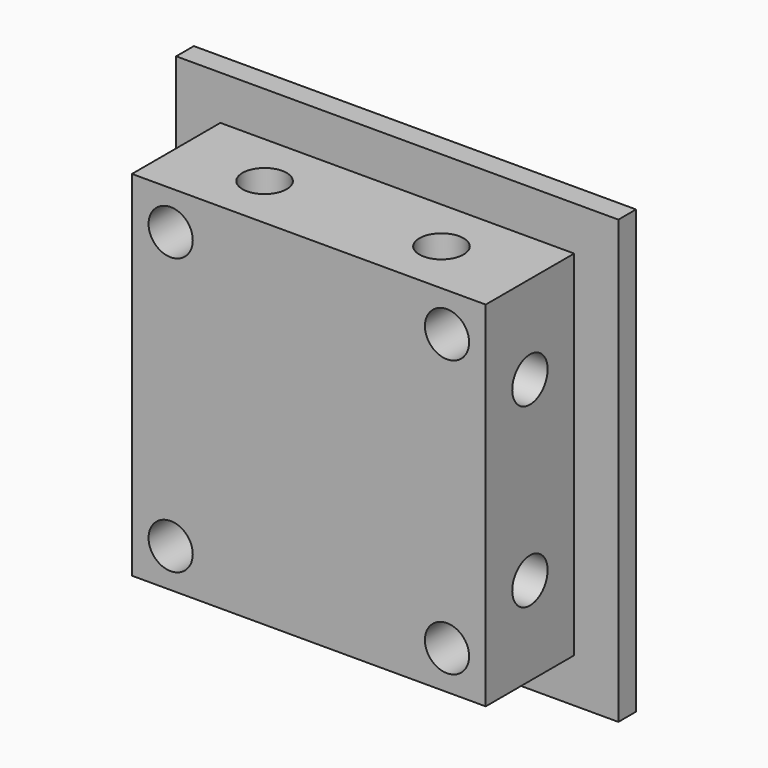
from build123d import *

# Parameters (mm, degrees)
SKETCH032_W     = 40
SKETCH032_H     = 40
SKETCH032_R     = 2
PAD018_DEPTH    = 2
SKETCH033_W     = 32
SKETCH033_H     = 32
SKETCH033_R     = 2
PAD019_DEPTH    = 10
SKETCH034_R     = 2
POCKET013_DEPTH = 8
SKETCH035_R     = 2
POCKET014_DEPTH = 8
SKETCH039_R     = 2
POCKET015_DEPTH = 8


with BuildPart() as part:
    # Sketch032 → Pad018 (new body)
    with BuildSketch(Plane.XZ):
        with Locations((0, 20)):
            Rectangle(SKETCH032_W, SKETCH032_H)
        with Locations((-12.5, 7.5)):
            Circle(SKETCH032_R, mode=Mode.SUBTRACT)
        with Locations((-12.5, 32.5)):
            Circle(SKETCH032_R, mode=Mode.SUBTRACT)
        with Locations((12.5, 32.5)):
            Circle(SKETCH032_R, mode=Mode.SUBTRACT)
        with Locations((12.5, 7.5)):
            Circle(SKETCH032_R, mode=Mode.SUBTRACT)
    extrude(amount=-PAD018_DEPTH)

    # Sketch033 (on Face9 of Pad018) → Pad019 (join)
    with BuildSketch(Plane.XZ):
        with Locations((0, 20)):
            Rectangle(SKETCH033_W, SKETCH033_H)
        with Locations((-12.5, 32.5)):
            Circle(SKETCH033_R, mode=Mode.SUBTRACT)
        with Locations((12.5, 32.5)):
            Circle(SKETCH033_R, mode=Mode.SUBTRACT)
        with Locations((-12.5, 7.5)):
            Circle(SKETCH033_R, mode=Mode.SUBTRACT)
        with Locations((12.5, 7.5)):
            Circle(SKETCH033_R, mode=Mode.SUBTRACT)
    extrude(amount=PAD019_DEPTH)

    # Sketch034 (on Face10 of Pad019) → Pocket013 (cut)
    with BuildSketch(Plane(origin=(-16, 0, 0), x_dir=(0, 0, -1), z_dir=(-1, 0, 0))):
        with Locations((-28, 5)):
            Circle(SKETCH034_R)
        with Locations((-12, 5)):
            Circle(SKETCH034_R)
    extrude(amount=-POCKET013_DEPTH, mode=Mode.SUBTRACT)

    # Sketch035 (on Face7 of Pocket013) → Pocket014 (cut)
    with BuildSketch(Plane(origin=(0, 0, 36), x_dir=(-1, 0, 0), z_dir=(0, 0, 1))):
        with Locations((-8, 5)):
            Circle(SKETCH035_R)
        with Locations((8, 5)):
            Circle(SKETCH035_R)
    extrude(amount=-POCKET014_DEPTH, mode=Mode.SUBTRACT)

    # Sketch039 (on Face8 of Pocket014) → Pocket015 (cut)
    with BuildSketch(Plane(origin=(16, 0, 0), x_dir=(0, 0, 1), z_dir=(1, 0, 0))):
        with Locations((12, 5)):
            Circle(SKETCH039_R)
        with Locations((28, 5)):
            Circle(SKETCH039_R)
    extrude(amount=-POCKET015_DEPTH, mode=Mode.SUBTRACT)


solid = part.part
